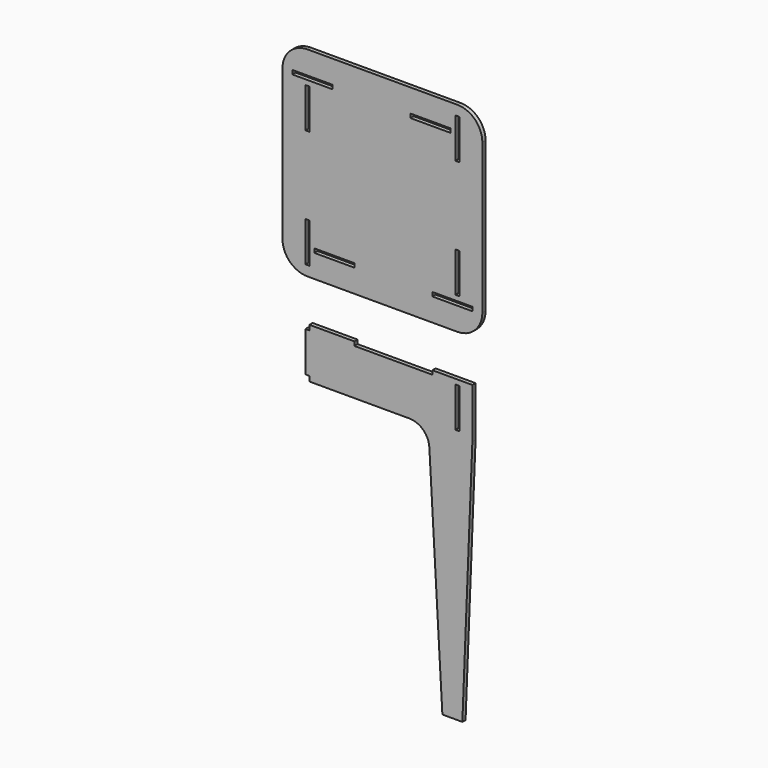
from build123d import *

# Parameters (mm, degrees)
F0_W     = 10
F0_H     = 100
F0_W_2   = 100
F0_H_2   = 10
F1_DEPTH = 10


with BuildPart() as f1:
    # F0 (on Front) → F1 (new body)
    with BuildSketch(Plane.XZ):
        with BuildLine():
            Line((0, 677.403411), (-187.5, 677.403411))
            ThreePointArc((-187.5, 677.403411), (-231.694174, 659.097585), (-250, 614.903411))
            Line((-250, 614.903411), (-250, 427.403411))
            Line((-250, 427.403411), (0, 427.403411))
            Line((0, 427.403411), (0, 677.403411))
        make_face()
        with Locations((-187.5, 547.403411)):
            Rectangle(F0_W, F0_H, mode=Mode.SUBTRACT)
        with Locations((-175, 614.903411)):
            Rectangle(F0_W_2, F0_H_2, mode=Mode.SUBTRACT)
        with BuildLine():
            Line((187.5, 677.403411), (0, 677.403411))
            Line((0, 677.403411), (0, 427.403411))
            Line((0, 427.403411), (250, 427.403411))
            Line((250, 427.403411), (250, 614.903411))
            ThreePointArc((250, 614.903411), (231.694174, 659.097585), (187.5, 677.403411))
        make_face()
        with Locations((120, 614.903411)):
            Rectangle(F0_W_2, F0_H_2, mode=Mode.SUBTRACT)
        with Locations((187.5, 602.403411)):
            Rectangle(F0_W, F0_H, mode=Mode.SUBTRACT)
        with BuildLine():
            Line((0, 177.403411), (0, 427.403411))
            Line((0, 427.403411), (-250, 427.403411))
            Line((-250, 427.403411), (-250, 239.903411))
            ThreePointArc((-250, 239.903411), (-231.694174, 195.709237), (-187.5, 177.403411))
            Line((-187.5, 177.403411), (0, 177.403411))
        make_face()
        with Locations((-187.5, 252.403411)):
            Rectangle(F0_W, F0_H, mode=Mode.SUBTRACT)
        with Locations((-120, 239.903411)):
            Rectangle(F0_W_2, F0_H_2, mode=Mode.SUBTRACT)
        with BuildLine():
            Line((250, 427.403411), (0, 427.403411))
            Line((0, 427.403411), (0, 177.403411))
            Line((0, 177.403411), (187.5, 177.403411))
            ThreePointArc((187.5, 177.403411), (231.694174, 195.709237), (250, 239.903411))
            Line((250, 239.903411), (250, 427.403411))
        make_face()
        with Locations((175, 239.903411)):
            Rectangle(F0_W_2, F0_H_2, mode=Mode.SUBTRACT)
        with Locations((187.5, 307.403411)):
            Rectangle(F0_W, F0_H, mode=Mode.SUBTRACT)
        with BuildLine():
            Line((125, 72.596589), (125, 62.596589))
            Line((125, 62.596589), (-70, 62.596589))
            Line((-70, 62.596589), (-70, 72.596589))
            Line((-70, 72.596589), (-182.5, 72.596589))
            Line((-182.5, 72.596589), (-182.5, 60.096589))
            Line((-182.5, 60.096589), (-192.5, 60.096589))
            Line((-192.5, 60.096589), (-192.5, -39.903411))
            Line((-192.5, -39.903411), (-182.5, -39.903411))
            Line((-182.5, -39.903411), (-182.5, -52.403411))
            Line((-182.5, -52.403411), (67.5, -52.403411))
            ThreePointArc((67.5, -52.403411), (101.845775, -66.066546), (117.420711, -99.5887))
            Line((117.420711, -99.5887), (150, -677.403411))
            Line((150, -677.403411), (200, -677.403411))
            Line((200, -677.403411), (225, -52.403411))
            Line((225, -52.403411), (225, 72.596589))
            Line((225, 72.596589), (125, 72.596589))
        make_face()
        with Locations((187.5, 10.096589)):
            Rectangle(F0_W, F0_H, mode=Mode.SUBTRACT)
    extrude(amount=F1_DEPTH)


solid = f1.part
